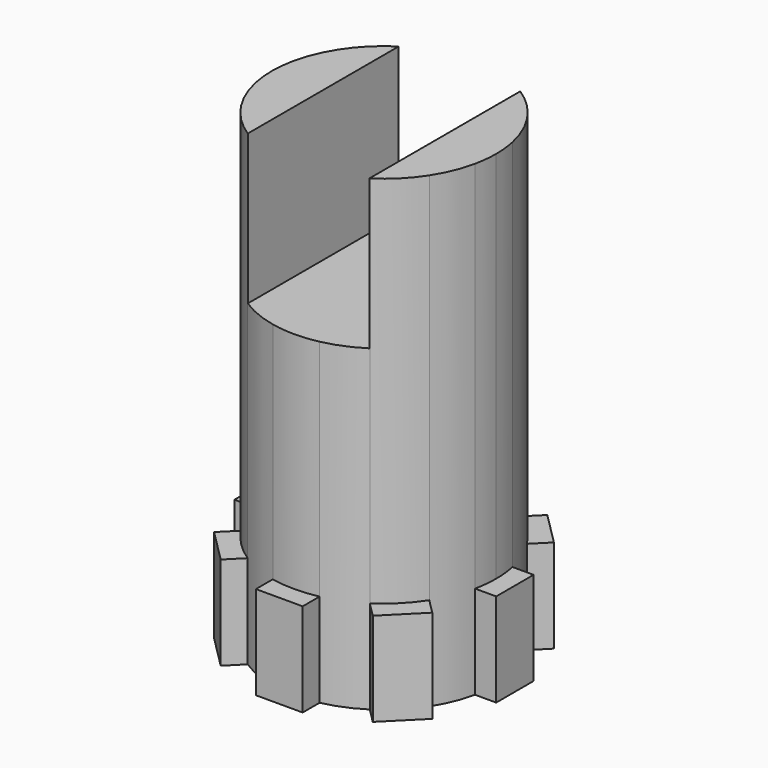
from build123d import *

# Parameters (mm, degrees)
F1_DEPTH = 31.75
F2_DEPTH = 6.35
F4_DEPTH = 10.16


with BuildPart() as f1:
    # F0 (on Top) → F1 (new body)
    with BuildSketch(Plane.XY):
        with BuildLine():
            Line((3.8325640626, 1.5875), (7.4528010674, 1.5875))
            ThreePointArc((7.4528010674, 1.5875), (7.0399620464, 2.9160477336), (6.3924582134, 4.1473941203))
            Line((6.3924582134, 4.1473941203), (3.8325640626, 1.5875))
        make_face()
        with BuildLine():
            Line((3.8325640626, 1.5875), (6.3924582134, 4.1473941203))
            ThreePointArc((6.3924582134, 4.1473941203), (5.3881537048, 5.3881536405), (4.1473941966, 6.392458164))
            Line((4.1473941966, 6.392458164), (1.5875000152, 3.8325640132))
            Line((1.5875000152, 3.8325640132), (1.5875000063, 1.5875))
            Line((1.5875000063, 1.5875), (3.8325640626, 1.5875))
        make_face()
        with BuildLine():
            Line((1.5875000152, 3.8325640132), (4.1473941966, 6.392458164))
            ThreePointArc((4.1473941966, 6.392458164), (2.9160477896, 7.0399620232), (1.5875000296, 7.4528010611))
            Line((1.5875000296, 7.4528010611), (1.5875000152, 3.8325640132))
        make_face()
        with BuildLine():
            Line((1.5875000152, 3.8325640132), (1.5875000296, 7.4528010611))
            ThreePointArc((1.5875000296, 7.4528010611), (3.03e-08, 7.62), (-1.5874999704, 7.4528010737))
            Line((-1.5874999704, 7.4528010737), (-1.5874999848, 3.8325640258))
            Line((-1.5874999848, 3.8325640258), (8.9e-09, 2.2450640258))
            Line((8.9e-09, 2.2450640258), (1.5875000152, 3.8325640132))
        make_face()
        with BuildLine():
            Line((-1.5874999848, 3.8325640258), (-1.5874999704, 7.4528010737))
            ThreePointArc((-1.5874999704, 7.4528010737), (-2.9160477336, 7.0399620464), (-4.1473941457, 6.392458197))
            Line((-4.1473941457, 6.392458197), (-1.5874999848, 3.8325640258))
        make_face()
        with BuildLine():
            Line((-1.5874999848, 3.8325640258), (-4.1473941457, 6.392458197))
            ThreePointArc((-4.1473941457, 6.392458197), (-5.3881536619, 5.3881536834), (-6.3924581805, 4.1473941712))
            Line((-6.3924581805, 4.1473941712), (-3.8325640195, 1.5875))
            Line((-3.8325640195, 1.5875), (-1.5874999937, 1.5875))
            Line((-1.5874999937, 1.5875), (-1.5874999848, 3.8325640258))
        make_face()
        with BuildLine():
            Line((-3.8325640195, 1.5875), (-6.3924581805, 4.1473941712))
            ThreePointArc((-6.3924581805, 4.1473941712), (-7.0399620348, 2.9160477616), (-7.4528010674, 1.5875))
            Line((-7.4528010674, 1.5875), (-3.8325640195, 1.5875))
        make_face()
        with BuildLine():
            Line((-2.2450640347, 8.9e-09), (-3.8325640195, 1.5875))
            Line((-3.8325640195, 1.5875), (-7.4528010674, 1.5875))
            ThreePointArc((-7.4528010674, 1.5875), (-7.62, 0), (-7.4528010674, -1.5875))
            Line((-7.4528010674, -1.5875), (-3.8325640626, -1.5875))
            Line((-3.8325640626, -1.5875), (-2.2450640347, 8.9e-09))
        make_face()
        with BuildLine():
            ThreePointArc((-7.4528010674, -1.5875), (-7.0399620464, -2.9160477336), (-6.3924582134, -4.1473941203))
            Line((-6.3924582134, -4.1473941203), (-3.8325640626, -1.5875))
            Line((-3.8325640626, -1.5875), (-7.4528010674, -1.5875))
        make_face()
        with BuildLine():
            ThreePointArc((-6.3924582134, -4.1473941203), (-5.3881537048, -5.3881536405), (-4.1473941966, -6.392458164))
            Line((-4.1473941966, -6.392458164), (-1.5875000152, -3.8325640132))
            Line((-1.5875000152, -3.8325640132), (-1.5875000063, -1.5875))
            Line((-1.5875000063, -1.5875), (-3.8325640626, -1.5875))
            Line((-3.8325640626, -1.5875), (-6.3924582134, -4.1473941203))
        make_face()
        with BuildLine():
            ThreePointArc((-4.1473941966, -6.392458164), (-2.9160477896, -7.0399620232), (-1.5875000296, -7.4528010611))
            Line((-1.5875000296, -7.4528010611), (-1.5875000152, -3.8325640132))
            Line((-1.5875000152, -3.8325640132), (-4.1473941966, -6.392458164))
        make_face()
        with BuildLine():
            ThreePointArc((-1.5875000296, -7.4528010611), (-3.03e-08, -7.62), (1.5874999704, -7.4528010737))
            Line((1.5874999704, -7.4528010737), (1.5874999848, -3.8325640258))
            Line((1.5874999848, -3.8325640258), (-8.9e-09, -2.2450640258))
            Line((-8.9e-09, -2.2450640258), (-1.5875000152, -3.8325640132))
            Line((-1.5875000152, -3.8325640132), (-1.5875000296, -7.4528010611))
        make_face()
        with BuildLine():
            ThreePointArc((1.5874999704, -7.4528010737), (2.9160477336, -7.0399620464), (4.1473941457, -6.392458197))
            Line((4.1473941457, -6.392458197), (1.5874999848, -3.8325640258))
            Line((1.5874999848, -3.8325640258), (1.5874999704, -7.4528010737))
        make_face()
        with BuildLine():
            ThreePointArc((4.1473941457, -6.392458197), (5.3881536619, -5.3881536834), (6.3924581805, -4.1473941712))
            Line((6.3924581805, -4.1473941712), (3.8325640195, -1.5875))
            Line((3.8325640195, -1.5875), (1.5874999937, -1.5875))
            Line((1.5874999937, -1.5875), (1.5874999848, -3.8325640258))
            Line((1.5874999848, -3.8325640258), (4.1473941457, -6.392458197))
        make_face()
        with BuildLine():
            ThreePointArc((6.3924581805, -4.1473941712), (7.0399620348, -2.9160477616), (7.4528010674, -1.5875))
            Line((7.4528010674, -1.5875), (3.8325640195, -1.5875))
            Line((3.8325640195, -1.5875), (6.3924581805, -4.1473941712))
        make_face()
        with BuildLine():
            ThreePointArc((7.4528010674, -1.5875), (7.5780849868, -0.7981402967), (7.62, 0))
            ThreePointArc((7.62, 0), (7.5780849868, 0.7981402967), (7.4528010674, 1.5875))
            Line((7.4528010674, 1.5875), (3.8325640626, 1.5875))
            Line((3.8325640626, 1.5875), (2.2450640347, -8.9e-09))
            Line((2.2450640347, -8.9e-09), (3.8325640195, -1.5875))
            Line((3.8325640195, -1.5875), (7.4528010674, -1.5875))
        make_face()
        with BuildLine():
            ThreePointArc((7.4528010674, -1.5875), (7.5780849868, -0.7981402967), (7.62, 0))
            ThreePointArc((7.62, 0), (7.5780849868, 0.7981402967), (7.4528010674, 1.5875))
            Line((7.4528010674, 1.5875), (3.8325640626, 1.5875))
            Line((3.8325640626, 1.5875), (2.2450640347, -8.9e-09))
            Line((2.2450640347, -8.9e-09), (3.8325640195, -1.5875))
            Line((3.8325640195, -1.5875), (7.4528010674, -1.5875))
        make_face()
        with BuildLine():
            ThreePointArc((-7.4528010674, -1.5875), (-7.0399620464, -2.9160477336), (-6.3924582134, -4.1473941203))
            Line((-6.3924582134, -4.1473941203), (-3.8325640626, -1.5875))
            Line((-3.8325640626, -1.5875), (-7.4528010674, -1.5875))
        make_face()
        with BuildLine():
            ThreePointArc((4.1473941457, -6.392458197), (5.3881536619, -5.3881536834), (6.3924581805, -4.1473941712))
            Line((6.3924581805, -4.1473941712), (3.8325640195, -1.5875))
            Line((3.8325640195, -1.5875), (1.5874999937, -1.5875))
            Line((1.5874999937, -1.5875), (1.5874999848, -3.8325640258))
            Line((1.5874999848, -3.8325640258), (4.1473941457, -6.392458197))
        make_face()
        with BuildLine():
            ThreePointArc((-1.5875000296, -7.4528010611), (-3.03e-08, -7.62), (1.5874999704, -7.4528010737))
            Line((1.5874999704, -7.4528010737), (1.5874999848, -3.8325640258))
            Line((1.5874999848, -3.8325640258), (-8.9e-09, -2.2450640258))
            Line((-8.9e-09, -2.2450640258), (-1.5875000152, -3.8325640132))
            Line((-1.5875000152, -3.8325640132), (-1.5875000296, -7.4528010611))
        make_face()
        with BuildLine():
            ThreePointArc((-6.3924582134, -4.1473941203), (-5.3881537048, -5.3881536405), (-4.1473941966, -6.392458164))
            Line((-4.1473941966, -6.392458164), (-1.5875000152, -3.8325640132))
            Line((-1.5875000152, -3.8325640132), (-1.5875000063, -1.5875))
            Line((-1.5875000063, -1.5875), (-3.8325640626, -1.5875))
            Line((-3.8325640626, -1.5875), (-6.3924582134, -4.1473941203))
        make_face()
        with BuildLine():
            Line((-2.2450640347, 8.9e-09), (-3.8325640195, 1.5875))
            Line((-3.8325640195, 1.5875), (-7.4528010674, 1.5875))
            ThreePointArc((-7.4528010674, 1.5875), (-7.62, 0), (-7.4528010674, -1.5875))
            Line((-7.4528010674, -1.5875), (-3.8325640626, -1.5875))
            Line((-3.8325640626, -1.5875), (-2.2450640347, 8.9e-09))
        make_face()
        with BuildLine():
            Line((-1.5874999848, 3.8325640258), (-4.1473941457, 6.392458197))
            ThreePointArc((-4.1473941457, 6.392458197), (-5.3881536619, 5.3881536834), (-6.3924581805, 4.1473941712))
            Line((-6.3924581805, 4.1473941712), (-3.8325640195, 1.5875))
            Line((-3.8325640195, 1.5875), (-1.5874999937, 1.5875))
            Line((-1.5874999937, 1.5875), (-1.5874999848, 3.8325640258))
        make_face()
        with BuildLine():
            Line((1.5875000152, 3.8325640132), (1.5875000296, 7.4528010611))
            ThreePointArc((1.5875000296, 7.4528010611), (3.03e-08, 7.62), (-1.5874999704, 7.4528010737))
            Line((-1.5874999704, 7.4528010737), (-1.5874999848, 3.8325640258))
            Line((-1.5874999848, 3.8325640258), (8.9e-09, 2.2450640258))
            Line((8.9e-09, 2.2450640258), (1.5875000152, 3.8325640132))
        make_face()
        with BuildLine():
            Line((3.8325640626, 1.5875), (6.3924582134, 4.1473941203))
            ThreePointArc((6.3924582134, 4.1473941203), (5.3881537048, 5.3881536405), (4.1473941966, 6.392458164))
            Line((4.1473941966, 6.392458164), (1.5875000152, 3.8325640132))
            Line((1.5875000152, 3.8325640132), (1.5875000063, 1.5875))
            Line((1.5875000063, 1.5875), (3.8325640626, 1.5875))
        make_face()
        Polygon((1.5874999848, -3.8325640258), (1.5874999937, -1.5875), (0.6575640247, -1.5875), (-8.9e-09, -2.2450640258), align=None)
        Polygon((1.5874999937, -1.5875), (3.8325640195, -1.5875), (2.2450640347, -8.9e-09), (1.5874999974, -0.6575640384), align=None)
        Polygon((2.2450640347, -8.9e-09), (3.8325640626, 1.5875), (1.5875000063, 1.5875), (1.5875000026, 0.6575640258), align=None)
        Polygon((0.6575640321, 1.5875), (1.5875000063, 1.5875), (1.5875000152, 3.8325640132), (8.9e-09, 2.2450640258), align=None)
        Polygon((-1.5874999974, 0.6575640384), (-1.5874999937, 1.5875), (-3.8325640195, 1.5875), (-2.2450640347, 8.9e-09), align=None)
        Polygon((-3.8325640626, -1.5875), (-1.5875000063, -1.5875), (-1.5875000026, -0.6575640258), (-2.2450640347, 8.9e-09), align=None)
        Polygon((-1.5875000152, -3.8325640132), (-8.9e-09, -2.2450640258), (-0.6575640321, -1.5875), (-1.5875000063, -1.5875), align=None)
        Polygon((-1.5875000063, -1.5875), (-0.6575640321, -1.5875), (-1.5875000026, -0.6575640258), align=None)
        Polygon((1.5875000026, 0.6575640258), (0.6575640321, 1.5875), (-0.6575640247, 1.5875), (-1.5874999974, 0.6575640384), (-1.5875000026, -0.6575640258), (-0.6575640321, -1.5875), (0.6575640247, -1.5875), (1.5874999974, -0.6575640384), align=None)
        Polygon((0.6575640247, -1.5875), (1.5874999937, -1.5875), (1.5874999974, -0.6575640384), align=None)
        Polygon((1.5874999974, -0.6575640384), (2.2450640347, -8.9e-09), (1.5875000026, 0.6575640258), align=None)
        Polygon((1.5875000026, 0.6575640258), (1.5875000063, 1.5875), (0.6575640321, 1.5875), align=None)
        Polygon((-0.6575640247, 1.5875), (8.9e-09, 2.2450640258), (-1.5874999848, 3.8325640258), (-1.5874999937, 1.5875), align=None)
        Polygon((-1.5874999974, 0.6575640384), (-0.6575640247, 1.5875), (-1.5874999937, 1.5875), align=None)
        Polygon((-0.6575640247, 1.5875), (0.6575640321, 1.5875), (8.9e-09, 2.2450640258), align=None)
        Polygon((-1.5875000026, -0.6575640258), (-1.5874999974, 0.6575640384), (-2.2450640347, 8.9e-09), align=None)
        Polygon((-8.9e-09, -2.2450640258), (0.6575640247, -1.5875), (-0.6575640321, -1.5875), align=None)
    extrude(amount=F1_DEPTH)

    # F0 (on Top) → F2 (join)
    with BuildSketch(Plane.XY):
        with BuildLine():
            ThreePointArc((-7.4528010674, -1.5875), (-7.62, 0), (-7.4528010674, 1.5875))
            Line((-7.4528010674, 1.5875), (-8.89, 1.5875))
            Line((-8.89, 1.5875), (-8.89, -1.5875))
            Line((-8.89, -1.5875), (-7.4528010674, -1.5875))
        make_face()
        with BuildLine():
            ThreePointArc((7.4528010674, 1.5875), (7.5780849868, 0.7981402967), (7.62, 0))
            ThreePointArc((7.62, 0), (7.5780849868, -0.7981402967), (7.4528010674, -1.5875))
            Line((7.4528010674, -1.5875), (8.89, -1.5875))
            Line((8.89, -1.5875), (8.89, 1.5875))
            Line((8.89, 1.5875), (7.4528010674, 1.5875))
        make_face()
        with BuildLine():
            Line((7.4087112896, -5.1636472843), (6.3924581805, -4.1473941712))
            ThreePointArc((6.3924581805, -4.1473941712), (5.3881536619, -5.3881536834), (4.1473941457, -6.392458197))
            Line((4.1473941457, -6.392458197), (5.1636472549, -7.4087113101))
            Line((5.1636472549, -7.4087113101), (7.4087112896, -5.1636472843))
        make_face()
        with BuildLine():
            Line((1.5874999647, -8.8900000063), (1.5874999704, -7.4528010737))
            ThreePointArc((1.5874999704, -7.4528010737), (-3.03e-08, -7.62), (-1.5875000296, -7.4528010611))
            Line((-1.5875000296, -7.4528010611), (-1.5875000353, -8.8899999937))
            Line((-1.5875000353, -8.8899999937), (1.5874999647, -8.8900000063))
        make_face()
        with BuildLine():
            Line((-5.1636473138, -7.4087112691), (-4.1473941966, -6.392458164))
            ThreePointArc((-4.1473941966, -6.392458164), (-5.3881537048, -5.3881536405), (-6.3924582134, -4.1473941203))
            Line((-6.3924582134, -4.1473941203), (-7.4087113307, -5.1636472254))
            Line((-7.4087113307, -5.1636472254), (-5.1636473138, -7.4087112691))
        make_face()
        with BuildLine():
            ThreePointArc((4.1473941966, 6.392458164), (5.3881537048, 5.3881536405), (6.3924582134, 4.1473941203))
            Line((6.3924582134, 4.1473941203), (7.4087113307, 5.1636472254))
            Line((7.4087113307, 5.1636472254), (5.1636473138, 7.4087112691))
            Line((5.1636473138, 7.4087112691), (4.1473941966, 6.392458164))
        make_face()
        with BuildLine():
            ThreePointArc((-1.5874999704, 7.4528010737), (3.03e-08, 7.62), (1.5875000296, 7.4528010611))
            Line((1.5875000296, 7.4528010611), (1.5875000353, 8.8899999937))
            Line((1.5875000353, 8.8899999937), (-1.5874999647, 8.8900000063))
            Line((-1.5874999647, 8.8900000063), (-1.5874999704, 7.4528010737))
        make_face()
        with BuildLine():
            ThreePointArc((-6.3924581805, 4.1473941712), (-5.3881536619, 5.3881536834), (-4.1473941457, 6.392458197))
            Line((-4.1473941457, 6.392458197), (-5.1636472549, 7.4087113101))
            Line((-5.1636472549, 7.4087113101), (-7.4087112896, 5.1636472843))
            Line((-7.4087112896, 5.1636472843), (-6.3924581805, 4.1473941712))
        make_face()
    extrude(amount=F2_DEPTH)

    # F3 (on face) → F4 (cut)
    with BuildSketch(Plane.XY.offset(31.75)):
        with BuildLine():
            ThreePointArc((4.1275, 6.4053215181), (2.1512612617, 7.3100256486), (0, 7.62))
            ThreePointArc((0, 7.62), (-2.1512612617, 7.3100256486), (-4.1275, 6.4053215181))
            Line((-4.1275, 6.4053215181), (-4.1275, -6.4053215181))
            ThreePointArc((-4.1275, -6.4053215181), (-2.1512612665, -7.3100256472), (-9.9e-09, -7.62))
            ThreePointArc((-9.9e-09, -7.62), (2.1512612569, -7.3100256501), (4.1275, -6.4053215181))
            Line((4.1275, -6.4053215181), (4.1275, 6.4053215181))
        make_face()
    extrude(amount=-F4_DEPTH, mode=Mode.SUBTRACT)


solid = f1.part
